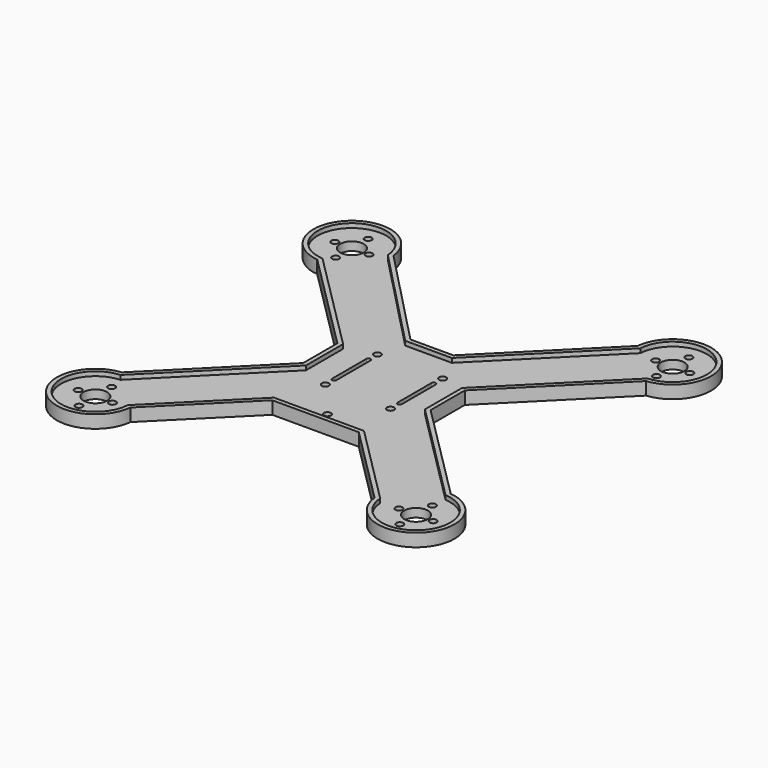
from build123d import *

# Parameters (mm, degrees)
F3_DEPTH   = 6
F5_D       = 3.3
F5_ON_F1_D = 3.3
F6_DEPTH   = 2
F7_D       = 11


with BuildPart() as f3:
    # F2 (on Top) → F3 (new body)
    with BuildSketch(Plane.XY):
        with BuildLine():
            Line((57.1005050634, 76.8994949366), (9.2390693497, 29.0380592229))
            Line((9.2390693497, 29.0380592229), (-10.8754739071, 29.0380592229))
            Line((-10.8754739071, 29.0380592229), (-57.1005050634, 76.8994949366))
            ThreePointArc((-57.1005050634, 76.8994949366), (-87.7279220614, 87.7279220614), (-76.8994949366, 57.1005050634))
            Line((-76.8994949366, 57.1005050634), (-29.7989898732, 10))
            Line((-29.7989898732, 10), (-29.7989898732, -10))
            Line((-29.7989898732, -10), (-76.8994949366, -57.1005050634))
            ThreePointArc((-76.8994949366, -57.1005050634), (-87.7279220614, -87.7279220614), (-57.1005050634, -76.8994949366))
            Line((-57.1005050634, -76.8994949366), (-20.217323358, -40.0163132312))
            Line((-20.217323358, -40.0163132312), (20.217323358, -40.0163132312))
            Line((20.217323358, -40.0163132312), (57.1005050634, -76.8994949366))
            ThreePointArc((57.1005050634, -76.8994949366), (87.7279220614, -87.7279220614), (76.8994949366, -57.1005050634))
            Line((76.8994949366, -57.1005050634), (29.7989898732, -10))
            Line((29.7989898732, -10), (29.7989898732, 10))
            Line((29.7989898732, 10), (76.8994949366, 57.1005050634))
            ThreePointArc((76.8994949366, 57.1005050634), (87.7279220614, 87.7279220614), (57.1005050634, 76.8994949366))
        make_face()
        with BuildLine():
            Line((-14.25, 10), (-14.25, -10))
            ThreePointArc((-14.25, -10), (-15.25, -11), (-16.25, -10))
            Line((-16.25, -10), (-16.25, 10))
            ThreePointArc((-16.25, 10), (-15.25, 11), (-14.25, 10))
        make_face(mode=Mode.SUBTRACT)
        with BuildLine():
            Line((16.25, 10), (16.25, -10))
            ThreePointArc((16.25, -10), (15.25, -11), (14.25, -10))
            Line((14.25, -10), (14.25, 10))
            ThreePointArc((14.25, 10), (15.25, 11), (16.25, 10))
        make_face(mode=Mode.SUBTRACT)
    extrude(amount=F3_DEPTH)

    # F5 (through all)
    with Locations(Plane(origin=(0, 0, 0), x_dir=(1, 0, 0), z_dir=(0, 0, -1))):
        with Locations((-83, -75), (-75, -84.5), (-67, -75), (-75, -65.5), (-75, 65.5), (-83, 75), (-75, 84.5), (-67, 75), (67, 75), (75, 65.5), (83, 75), (75, 84.5), (75, -65.5), (67, -75), (75, -84.5), (83, -75)):
            Hole(F5_D / 2)

    # F5 on F1 (through all)
    with Locations(Plane(origin=(0, 0, 0), x_dir=(1, 0, 0), z_dir=(0, 0, -1))):
        with Locations((-15.25, -15.25), (15.25, -15.25), (15.25, 15.25), (-15.25, 15.25), (0, 33.0380592229)):
            Hole(F5_ON_F1_D / 2)

    # F4 (on face) → F6 (cut)
    with BuildSketch(Plane.XY.offset(6)):
        with BuildLine():
            Line((-11.7243497964, 27.0380592229), (-59.0326143525, 76.0210757))
            ThreePointArc((-59.0326143525, 76.0210757), (-86.3204761024, 86.3069368449), (-76.0019666007, 59.0314038522))
            Line((-76.0019666007, 59.0314038522), (-27.7989898732, 10.8284271247))
            Line((-27.7989898732, 10.8284271247), (-27.7989898732, -10.8284271247))
            Line((-27.7989898732, -10.8284271247), (-76.0019666007, -59.0314038522))
            ThreePointArc((-76.0019666007, -59.0314038522), (-86.313708499, -86.313708499), (-59.0314038522, -76.0019666007))
            Line((-59.0314038522, -76.0019666007), (-21.0457504827, -38.0163132312))
            Line((-21.0457504827, -38.0163132312), (21.0457504827, -38.0163132312))
            Line((21.0457504827, -38.0163132312), (59.0314038522, -76.0019666007))
            ThreePointArc((59.0314038522, -76.0019666007), (86.313708499, -86.313708499), (76.0019666007, -59.0314038522))
            Line((76.0019666007, -59.0314038522), (27.7989898732, -10.8284271247))
            Line((27.7989898732, -10.8284271247), (27.7989898732, 10.8284271247))
            Line((27.7989898732, 10.8284271247), (76.0019666007, 59.0314038522))
            ThreePointArc((76.0019666007, 59.0314038522), (86.313708499, 86.313708499), (59.0314038522, 76.0019666007))
            Line((59.0314038522, 76.0019666007), (10.0674964744, 27.0380592229))
            Line((10.0674964744, 27.0380592229), (-11.7243497964, 27.0380592229))
        make_face()
    extrude(amount=-F6_DEPTH, mode=Mode.SUBTRACT)

    # F7 (through all)
    with Locations(Plane(origin=(0, 0, 0), x_dir=(1, 0, 0), z_dir=(0, 0, -1))):
        with Locations((-75, -75), (75, -75), (-75, 75), (75, 75)):
            Hole(F7_D / 2)


solid = f3.part
